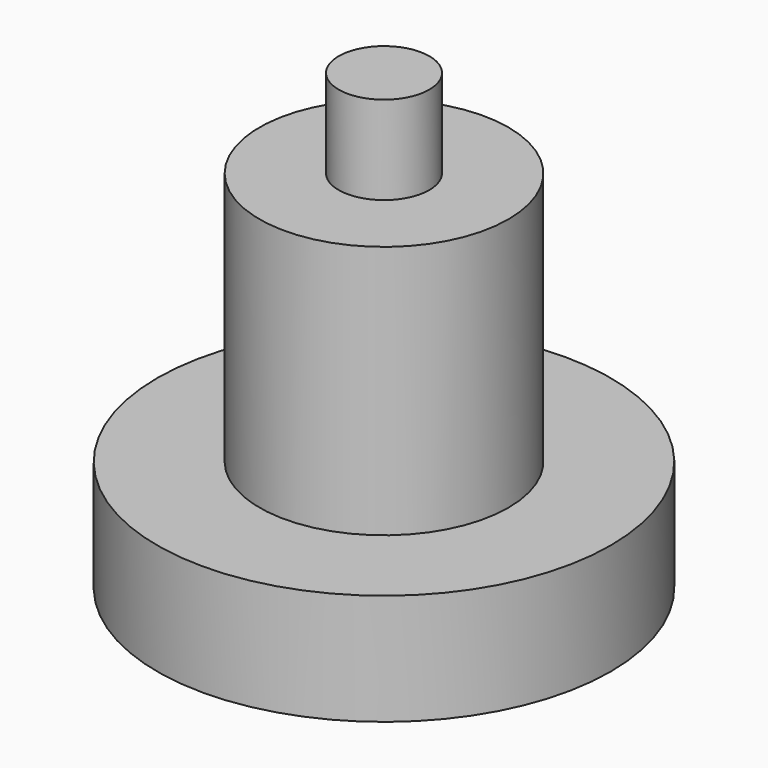
from build123d import *

# Parameters (mm, degrees)
F0_W     = 8
F0_H     = 4.6
F2_R     = 5.5
F2_R_2   = 2
F3_DEPTH = 0.3
F4_W     = 5.5
F4_H     = 11.2
F6_R     = 2
F7_DEPTH = 3.9


with BuildPart() as f1:
    # F0 (on Front) → F1 (revolve)
    with BuildSketch(Plane.XZ):
        with Locations((6, 0.039412)):
            Rectangle(F0_W, F0_H)
    revolve(axis=Axis((0, 0, 0.039412), (0, 0, -1)))

    # F2 (on face) → F3 (join)
    with BuildSketch(Plane.XY.offset(2.339412)):
        Circle(F2_R)
        Circle(F2_R_2, mode=Mode.SUBTRACT)
    extrude(amount=F3_DEPTH)


with BuildPart() as f5:
    # F4 (on Front) → F5 (revolve)
    with BuildSketch(Plane.XZ):
        with Locations((2.75, 8.252153)):
            Rectangle(F4_W, F4_H)
    revolve(axis=Axis((0, 0, 8.252153), (0, 0, 1)))

    # F6 (on face) → F7 (join)
    with BuildSketch(Plane.XY.offset(13.852153)):
        Circle(F6_R)
    extrude(amount=F7_DEPTH)


with BuildPart() as f9:
    # F8 (on Front) → F9 (revolve)
    with BuildSketch(Plane.XZ):
        Polygon((2, 17.76988), (0, 17.76988), (0, 2.691046), (2, 2.691046), (2, -2.23012), (10, -2.23012), (10, 2.66988), (5.491101, 2.66988), (5.491101, 13.86988), (2, 13.86988), align=None)
    revolve(axis=Axis((0, 0, 4.709774), (0, 0, -1)))


solid = f9.part
